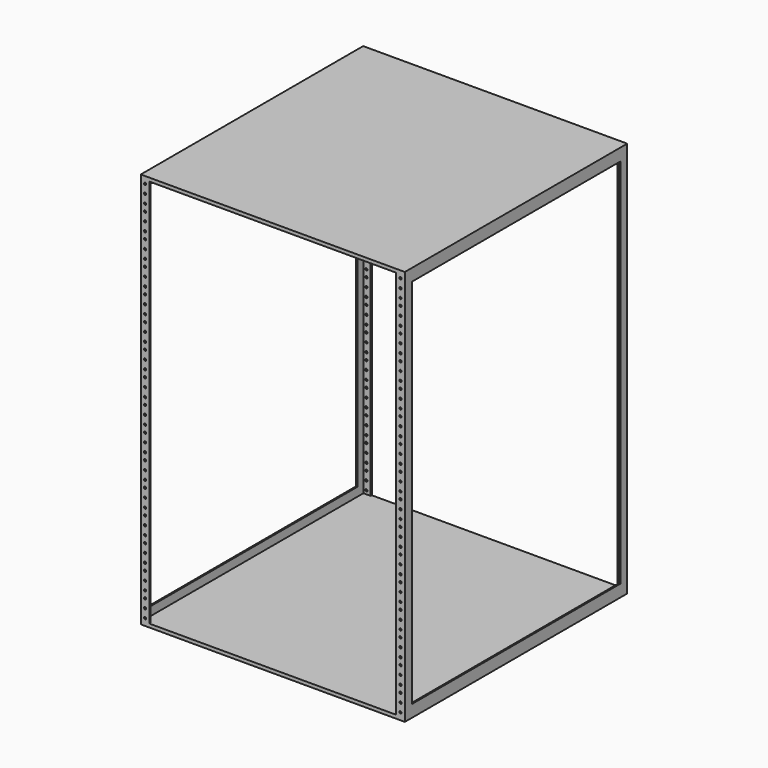
from build123d import *

# Parameters (mm, degrees)
F0_W      = 482.6
F0_H      = 711.2
F1_DEPTH  = 508
F2_W      = 450.85
F2_H      = 711.2
F3_DEPTH  = 508.001
F4_W      = 476.25
F4_H      = 679.45
F5_DEPTH  = 482.601
F6_W      = 477.52
F6_H      = 502.92
F7_DEPTH  = 711.201
F9_D      = 4.0386
F10_W     = 482.6
F10_H     = 508
F11_DEPTH = 6.35
F12_W     = 482.6
F12_H     = 508
F13_DEPTH = 6.35


with BuildPart() as f1:
    # F0 (on Front) → F1 (new body)
    with BuildSketch(Plane.XZ):
        Rectangle(F0_W, F0_H)
    extrude(amount=-F1_DEPTH)

    # F2 (on face) → F3 (cut, through all)
    with BuildSketch(Plane.XZ):
        Rectangle(F2_W, F2_H)
    extrude(amount=-F3_DEPTH, mode=Mode.SUBTRACT)

    # F4 (on face) → F5 (cut, through all)
    with BuildSketch(Plane(origin=(-241.3, 0, 0), x_dir=(0, -1, 0), z_dir=(-1, 0, 0))):
        with Locations((-254, 0)):
            Rectangle(F4_W, F4_H)
    extrude(amount=-F5_DEPTH, mode=Mode.SUBTRACT)

    # F6 (on face) → F7 (cut, through all)
    with BuildSketch(Plane.XY.offset(355.6)):
        with Locations((0, 254)):
            Rectangle(F6_W, F6_H)
    extrude(amount=-F7_DEPTH, mode=Mode.SUBTRACT)

    # F9 (through all)
    with Locations(Plane.XZ):
        with Locations((-233.3625, 260.35), (233.3625, -228.6), (233.3625, -95.25), (233.3625, -260.35), (233.3625, 244.475), (233.3625, 38.1), (233.3625, 200.025), (233.3625, 333.375), (233.3625, 127), (-233.3625, -304.8), (-233.3625, -171.45), (-233.3625, -6.35), (-233.3625, 127), (233.3625, -304.8), (-233.3625, -38.1), (233.3625, -244.475), (233.3625, -38.1), (233.3625, 260.35), (233.3625, 50.8), (233.3625, 215.9), (233.3625, 349.25), (-233.3625, 50.8), (-233.3625, -155.575), (233.3625, -288.925), (233.3625, -155.575), (233.3625, -82.55), (-233.3625, -139.7), (-233.3625, 66.675), (233.3625, -139.7), (233.3625, 22.225), (233.3625, 95.25), (233.3625, 228.6), (-233.3625, -317.5), (-233.3625, 95.25), (-233.3625, -111.125), (233.3625, -317.5), (-233.3625, 184.15), (-233.3625, 200.025), (233.3625, -111.125), (-233.3625, 215.9), (233.3625, 317.5), (-233.3625, -184.15), (-233.3625, 22.225), (-233.3625, 273.05), (-233.3625, 349.25), (-233.3625, 333.375), (233.3625, -171.45), (-233.3625, 288.925), (-233.3625, -228.6), (-233.3625, 111.125), (233.3625, -22.225), (-233.3625, 317.5), (233.3625, 66.675), (-233.3625, -82.55), (-233.3625, -288.925), (233.3625, -184.15), (233.3625, 184.15), (-233.3625, -22.225), (-233.3625, -95.25), (-233.3625, 304.8), (-233.3625, 244.475), (-233.3625, 228.6), (-233.3625, 38.1), (233.3625, -6.35), (-233.3625, -244.475), (233.3625, 111.125), (-233.3625, -273.05), (233.3625, 171.45), (233.3625, 304.8), (233.3625, 6.35), (233.3625, -200.025), (-233.3625, 6.35), (-233.3625, -200.025), (233.3625, -50.8), (233.3625, -349.25), (-233.3625, 155.575), (-233.3625, -50.8), (-233.3625, -349.25), (233.3625, 155.575), (233.3625, 288.925), (233.3625, 82.55), (233.3625, -127), (233.3625, -333.375), (233.3625, -215.9), (-233.3625, 82.55), (-233.3625, -215.9), (233.3625, -66.675), (233.3625, -273.05), (-233.3625, 171.45), (-233.3625, 139.7), (-233.3625, -66.675), (233.3625, 139.7), (233.3625, 273.05), (-233.3625, -127), (-233.3625, -333.375), (-233.3625, -260.35)):
            Hole(F9_D / 2)

    # F10 (on face) → F11 (join)
    with BuildSketch(Plane.XY.offset(355.6)):
        with Locations((0, 254)):
            Rectangle(F10_W, F10_H)
    extrude(amount=F11_DEPTH)

    # F12 (on face) → F13 (join)
    with BuildSketch(Plane(origin=(0, 0, -355.6), x_dir=(1, 0, 0), z_dir=(0, 0, -1))):
        with Locations((0, -254)):
            Rectangle(F12_W, F12_H)
    extrude(amount=F13_DEPTH)


solid = f1.part
